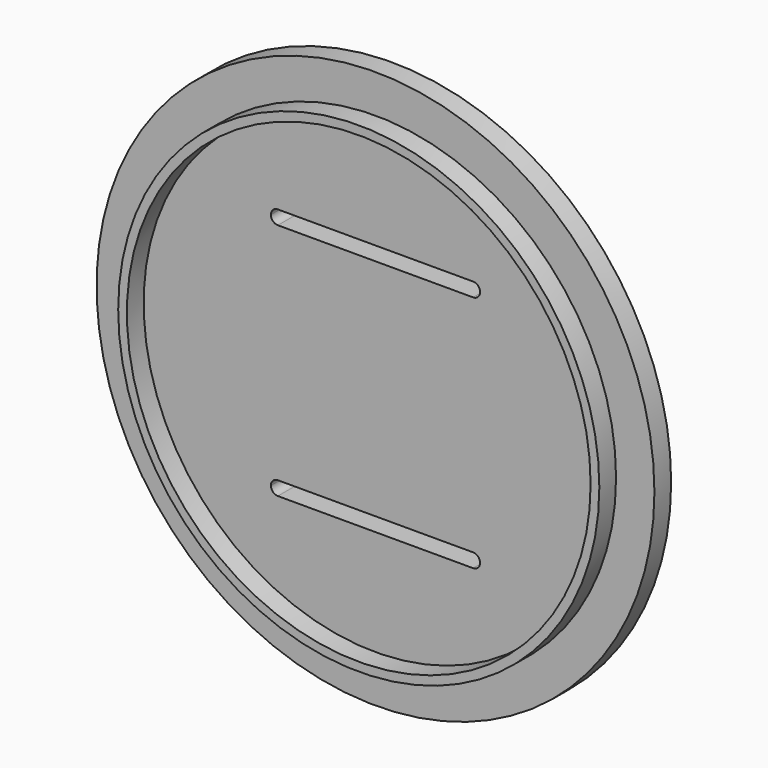
from build123d import *

# Parameters (mm, degrees)
F0_R     = 40
F1_DEPTH = 3
F2_R     = 34.5
F3_DEPTH = 3
F4_R     = 33.25
F5_DEPTH = 3
F7_DEPTH = 3.001


with BuildPart() as f1:
    # F0 (on Front) → F1 (new body)
    with BuildSketch(Plane.XZ):
        Circle(F0_R)
    extrude(amount=F1_DEPTH)

    # F2 (on face) → F3 (join)
    with BuildSketch(Plane.XZ.offset(3)):
        Circle(F2_R)
    extrude(amount=F3_DEPTH)

    # F4 (on face) → F5 (cut)
    with BuildSketch(Plane.XZ.offset(6)):
        Circle(F4_R)
    extrude(amount=-F5_DEPTH, mode=Mode.SUBTRACT)

    # F6 (on face) → F7 (cut, through all)
    with BuildSketch(Plane.XZ.offset(3)):
        with BuildLine():
            Line((14, 18.093938), (-14, 18.093938))
            ThreePointArc((-14, 18.093938), (-14.707107, 17.801045), (-15, 17.093938))
            ThreePointArc((-15, 17.093938), (-14.707107, 16.386831), (-14, 16.093938))
            Line((-14, 16.093938), (14, 16.093938))
            ThreePointArc((14, 16.093938), (14.707107, 16.386831), (15, 17.093938))
            ThreePointArc((15, 17.093938), (14.707107, 17.801045), (14, 18.093938))
        make_face()
        with BuildLine():
            Line((14, -16.093938), (-14, -16.093938))
            ThreePointArc((-14, -16.093938), (-14.707107, -16.386831), (-15, -17.093938))
            ThreePointArc((-15, -17.093938), (-14.707107, -17.801045), (-14, -18.093938))
            Line((-14, -18.093938), (14, -18.093938))
            ThreePointArc((14, -18.093938), (14.707107, -17.801045), (15, -17.093938))
            ThreePointArc((15, -17.093938), (14.707107, -16.386831), (14, -16.093938))
        make_face()
    extrude(amount=-F7_DEPTH, mode=Mode.SUBTRACT)


solid = f1.part
